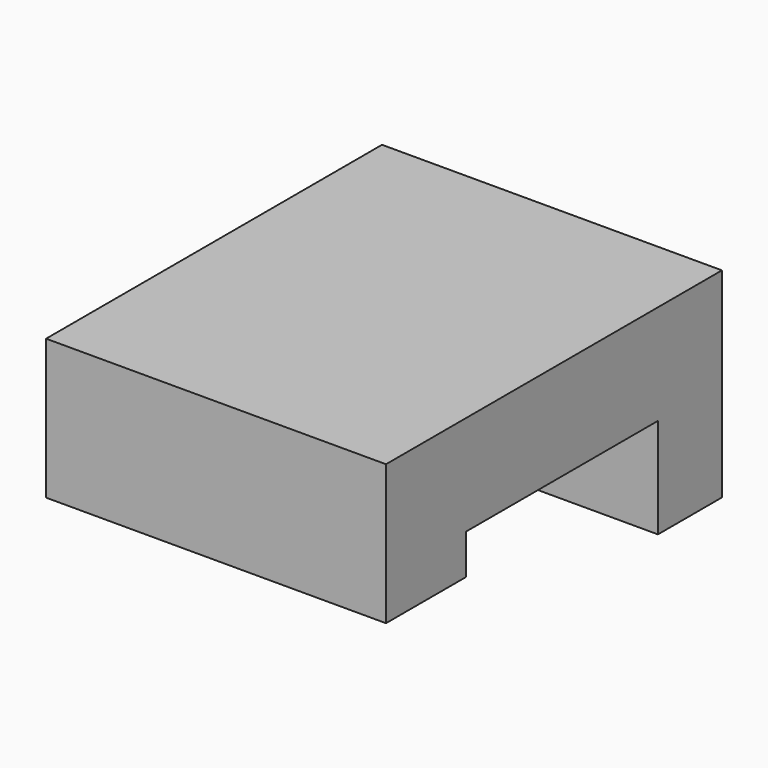
from build123d import *

# Parameters (mm, degrees)
F0_W     = 17
F0_H     = 4
F1_DEPTH = 10
F2_W     = 17
F2_H     = 5
F3_DEPTH = 12
F4_W     = 17
F4_H     = 7
F5_DEPTH = 5


with BuildPart() as f1:
    # F0 (on Top) → F1 (new body)
    with BuildSketch(Plane.XY):
        with Locations((5.519233, -6.434065)):
            Rectangle(F0_W, F0_H)
    extrude(amount=F1_DEPTH)

    # F2 (on face) → F3 (join)
    with BuildSketch(Plane.XZ.offset(8.434065)):
        with Locations((5.519233, 7.5)):
            Rectangle(F2_W, F2_H)
    extrude(amount=F3_DEPTH)

    # F4 (on face) → F5 (join)
    with BuildSketch(Plane.XZ.offset(20.434065)):
        with Locations((5.519233, 6.5)):
            Rectangle(F4_W, F4_H)
    extrude(amount=F5_DEPTH)


solid = f1.part
